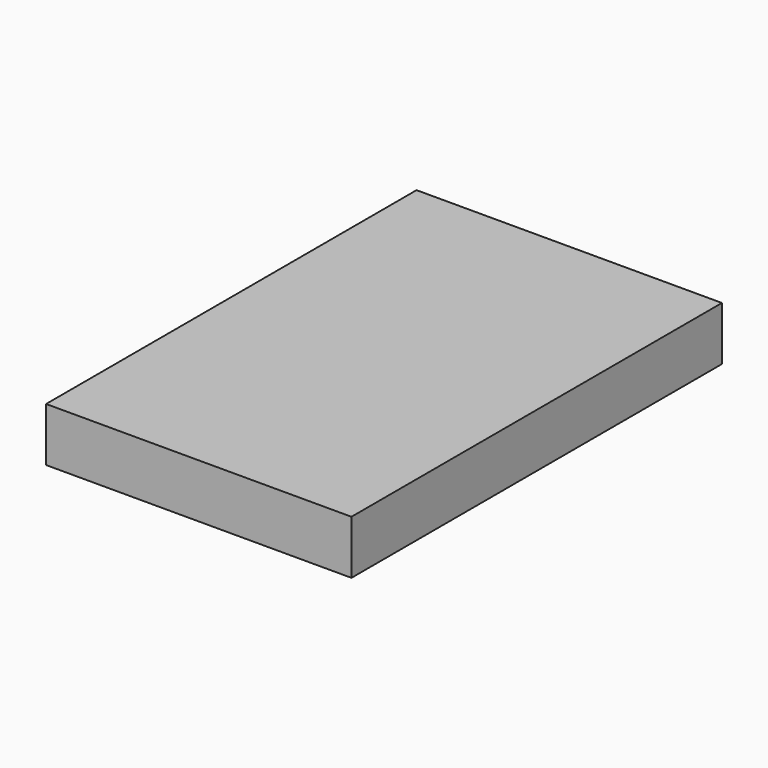
from build123d import *

# Parameters (mm, degrees)
F0_W     = 33.5
F0_H     = 50.8
F1_DEPTH = 5.9
F3_DEPTH = 0.1


with BuildPart() as f1:
    # F0 (on Top) → F1 (new body)
    with BuildSketch(Plane.XY):
        Rectangle(F0_W, F0_H)
    extrude(amount=F1_DEPTH)

    # F2 (on face) → F3 (cut)
    with BuildSketch(Plane(origin=(0, 0, 0), x_dir=(1, 0, 0), z_dir=(0, 0, -1))):
        with BuildLine():
            ThreePointArc((0.5, -23.4), (-0.353553, -23.046447), (0, -23.9))
            ThreePointArc((0, -23.9), (0.353553, -23.753553), (0.5, -23.4))
        make_face()
    extrude(amount=-F3_DEPTH, mode=Mode.SUBTRACT)


solid = f1.part
